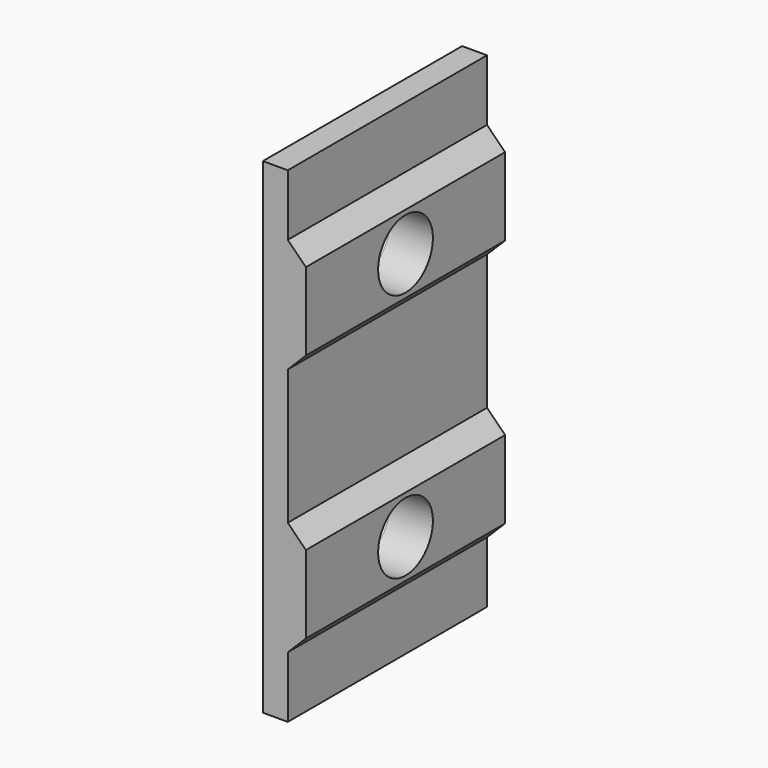
from build123d import *

# Parameters (mm, degrees)
F2_DEPTH  = 10
F3_R      = 7.5
F4_DEPTH  = 2
F8_D      = 5.5
F8_DEPTH  = 3.456
F9_R      = 2.75
F10_DEPTH = 25
F11_R     = 5
F11_R_2   = 2.75
F12_DEPTH = 2


with BuildPart() as f2:
    # F1 (on Front) → F2 (new body, symmetric)
    with BuildSketch(Plane.XZ):
        Polygon((-10, -5.42), (-10, 5.42), (-8.545, 6.875), (-8.545, 13.125), (-10, 14.58), (-10, 19.5), (-12, 19.5), (-12, -19.5), (-10, -19.5), (-10, -14.58), (-8.545, -13.125), (-8.545, -6.875), align=None)
    extrude(amount=F2_DEPTH, both=True)

    # F3 (on face) → F4 (join)
    with BuildSketch(Plane(origin=(-12, 0, 0), x_dir=(0, -1, 0), z_dir=(-1, 0, 0))):
        Circle(F3_R)
    extrude(amount=F4_DEPTH)

    # F5 (on Top) → F6 (revolve, cut)
    with BuildSketch(Plane.XY):
        with BuildLine():
            Line((-14, 0), (-14, -5))
            ThreePointArc((-14, -5), (-12.5185439911, -2.6925824036), (-12, 0))
            Line((-12, 0), (-14, 0))
        make_face()
    revolve(axis=Axis((-13, 0, 0), (-1, 0, 0)), mode=Mode.SUBTRACT)

    # F8 (through all, one way)
    with BuildSketch(Plane(origin=(-12, 0, 0), x_dir=(0, -1, 0), z_dir=(-1, 0, 0))):
        with Locations((0, 10), (0, -10)):
            Circle(F8_D / 2)
    extrude(amount=-F8_DEPTH, mode=Mode.SUBTRACT)

    # F9 (on face) → F10 (cut)
    with BuildSketch(Plane.YZ.offset(-8.545)):
        with Locations((0, 10)):
            Circle(F9_R)
        with Locations((0, -10)):
            Circle(F9_R)
    extrude(amount=-F10_DEPTH, mode=Mode.SUBTRACT)

    # F11 (on face) → F12 (join, through all)
    with BuildSketch(Plane(origin=(-12, 0, 0), x_dir=(0, -1, 0), z_dir=(-1, 0, 0))):
        with Locations((0, 10)):
            Circle(F11_R)
        with Locations((0, 10)):
            Circle(F11_R_2, mode=Mode.SUBTRACT)
        with Locations((0, -10)):
            Circle(F11_R)
        with Locations((0, -10)):
            Circle(F11_R_2, mode=Mode.SUBTRACT)
    extrude(amount=F12_DEPTH)


solid = f2.part
